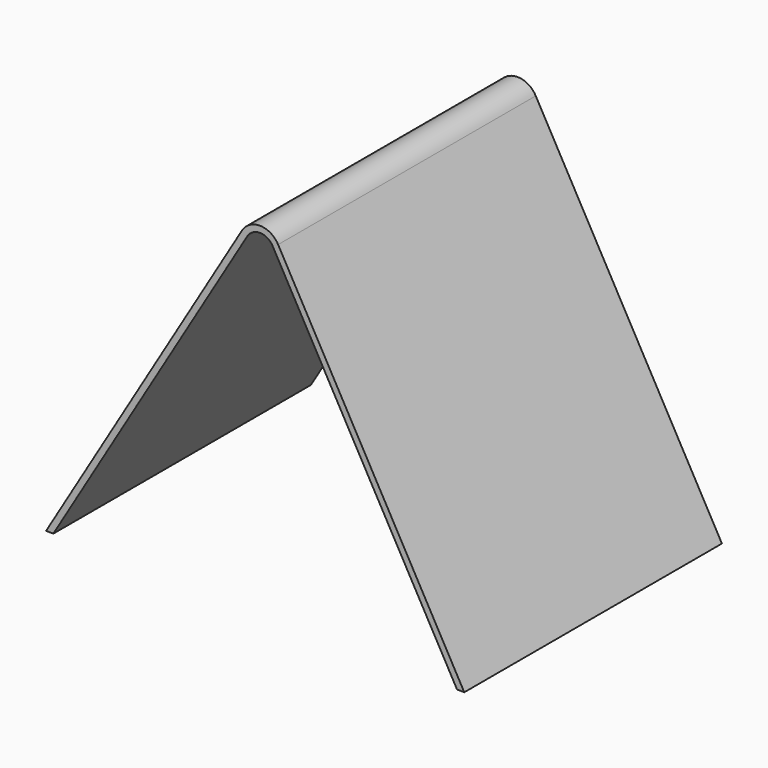
from build123d import *

# Parameters (mm, degrees)
F1_DEPTH = 154


with BuildPart() as f1:
    # F0 (on Front) → F1 (new body)
    with BuildSketch(Plane.XZ):
        with BuildLine():
            Line((118.030932, 32.928769), (29.008531, 192.449328))
            ThreePointArc((29.008531, 192.449328), (20.42213, 197.575117), (11.689865, 192.70197))
            Line((11.689865, 192.70197), (-81.94779, 35.846029))
            Line((-81.94779, 35.846029), (-78.484057, 35.795501))
            Line((-78.484057, 35.795501), (14.265786, 191.164234))
            ThreePointArc((14.265786, 191.164234), (20.378371, 194.575436), (26.388852, 190.987384))
            Line((26.388852, 190.987384), (114.567199, 32.979297))
            Line((114.567199, 32.979297), (118.030932, 32.928769))
        make_face()
    extrude(amount=F1_DEPTH)


solid = f1.part
